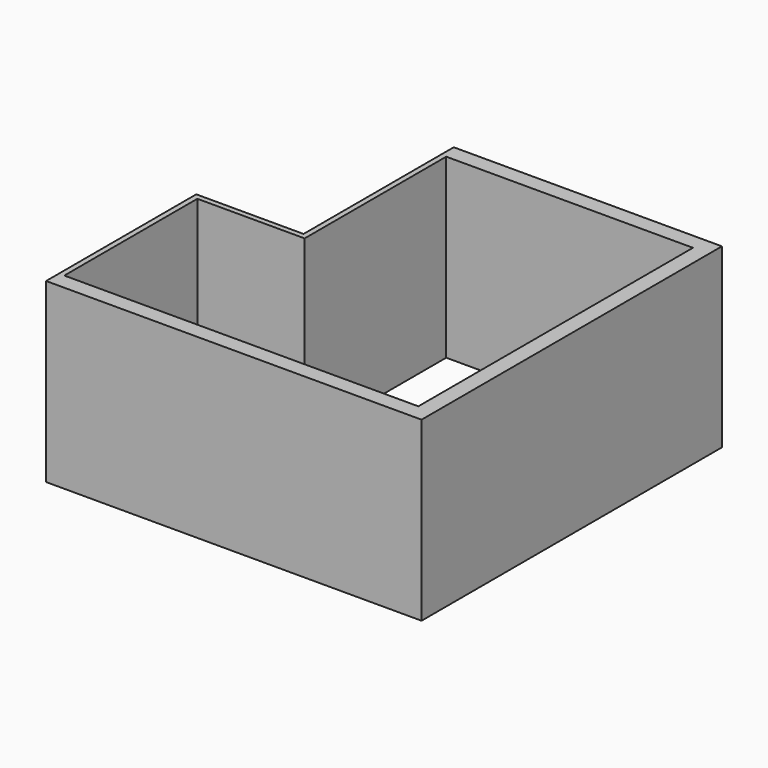
from build123d import *

# Parameters (mm, degrees)
F1_DEPTH      = 30
F1_DEPTH_BACK = 3


with BuildPart() as f1:
    # F0 (on Top) → F1 (new body, two sides)
    with BuildSketch(Plane.XY) as f1_sk:
        Polygon((0, 35), (0, 0), (3, 0), (70, 0), (70, 70), (20, 70), (20, 35), align=None)
        Polygon((67, 3), (3, 3), (1, 3), (1, 34), (21, 34), (21, 67), (67, 67), align=None, mode=Mode.SUBTRACT)
    extrude(amount=F1_DEPTH)
    extrude(f1_sk.sketch, amount=-F1_DEPTH_BACK)


solid = f1.part
